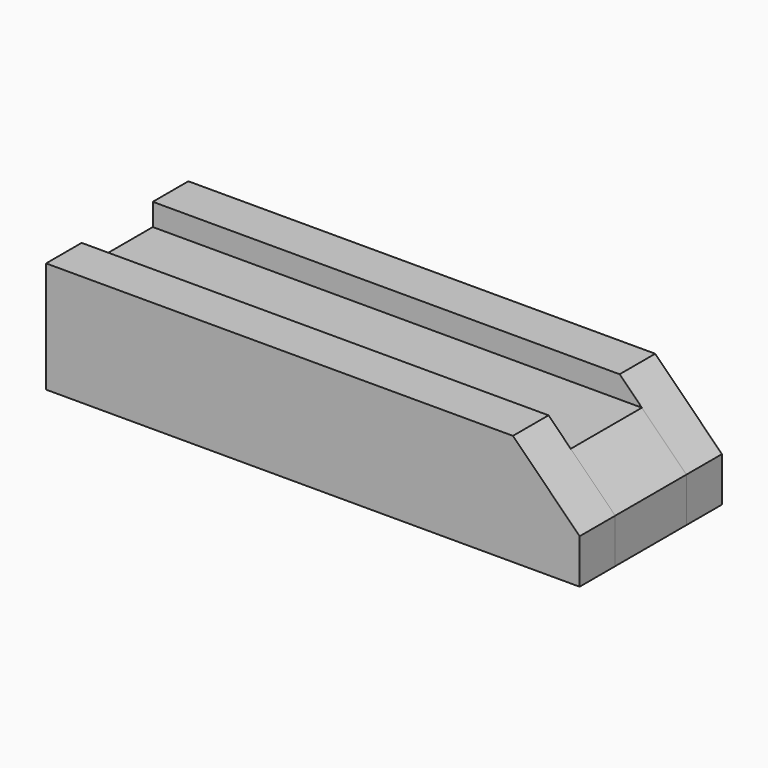
from build123d import *

# Parameters (mm, degrees)
F1_DEPTH = 152.4
F0_W     = 25.4
F0_H     = 25.4
F2_DEPTH = 152.4
F4_DEPTH = 50.801


with BuildPart() as f1:
    # F0 (on Right) → F1 (new body)
    with BuildSketch(Plane.YZ):
        Polygon((0, 31.75), (0, 0), (12.7, 0), (12.7, 25.4), (12.7, 31.75), align=None)
        Polygon((38.1, 25.4), (38.1, 0), (50.8, 0), (50.8, 31.75), (38.1, 31.75), align=None)
    extrude(amount=F1_DEPTH)


with BuildPart() as f2:
    # F0 (on Right) → F2 (new body, through all)
    with BuildSketch(Plane.YZ):
        with Locations((25.4, 12.7)):
            Rectangle(F0_W, F0_H)
    extrude(amount=F2_DEPTH)


with BuildPart() as f4_tool:
    # F3 (on face) → F4 (new body, through all)
    with BuildSketch(Plane.XZ):
        Polygon((133.35, 31.75), (152.4, 12.7), (152.4, 31.75), align=None)
    extrude(amount=-F4_DEPTH)


with BuildPart() as f1_1:
    add(f1.part)

    # F4: cut by f4_tool
    add(f4_tool.part, mode=Mode.SUBTRACT)


with BuildPart() as f2_1:
    add(f2.part)

    # F4: cut by f4_tool
    add(f4_tool.part, mode=Mode.SUBTRACT)


solid = Compound([f1_1.part, f2_1.part])
